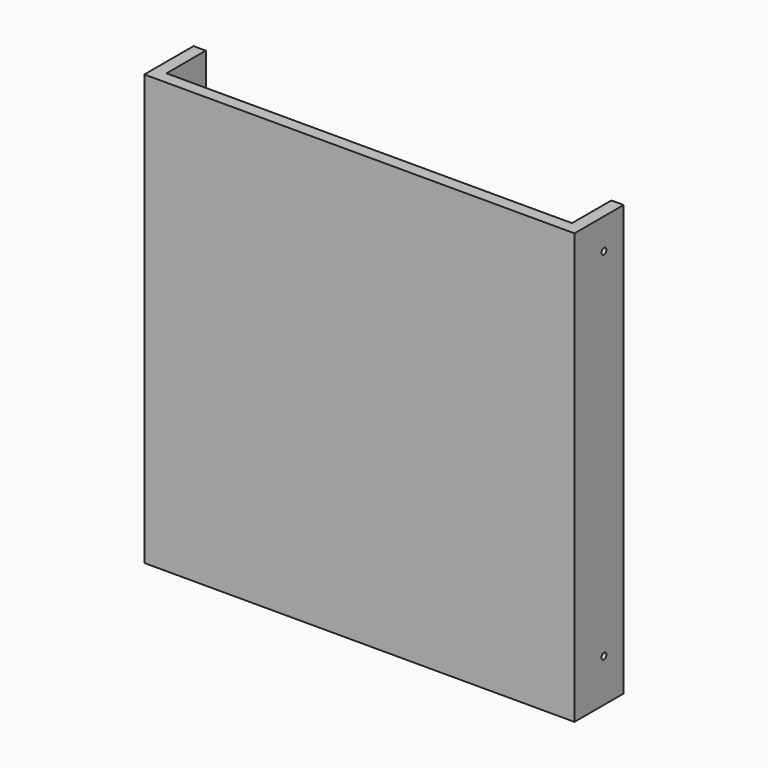
from build123d import *

# Parameters (mm, degrees)
F0_W          = 70
F0_H          = 70
F1_DEPTH      = 10
F2_T          = -2
F3_W          = 66
F3_H          = 8
F4_DEPTH      = 4.32812
F5_R          = 0.5
F6_DEPTH      = 2.001
F6_DEPTH_BACK = 68.001


with BuildPart() as f1:
    # F0 (on Front) → F1 (new body)
    with BuildSketch(Plane.XZ):
        with Locations((0, -7.2107579758)):
            Rectangle(F0_W, F0_H)
    extrude(amount=F1_DEPTH)

    # F2
    f2_openings = [f1.faces().sort_by_distance(p)[0] for p in [
        (0, 0, -7.210758),
    ]]
    offset(amount=F2_T, openings=f2_openings)

    # F3 (on face) → F4 (cut)
    with BuildSketch(Plane.XY.offset(27.7892420242)):
        with Locations((0, -4)):
            Rectangle(F3_W, F3_H)
    extrude(amount=-F4_DEPTH, mode=Mode.SUBTRACT)

    # F5 (on face) → F6 (cut, two sides)
    with BuildSketch(Plane(origin=(33, 0, 0), x_dir=(0, -1, 0), z_dir=(-1, 0, 0))) as f6_sk:
        with Locations((4, 22.7892420242)):
            Circle(F5_R)
        with Locations((4, -35.2107579758)):
            Circle(F5_R)
    extrude(amount=-F6_DEPTH, mode=Mode.SUBTRACT)
    extrude(f6_sk.sketch, amount=F6_DEPTH_BACK, mode=Mode.SUBTRACT)


solid = f1.part
